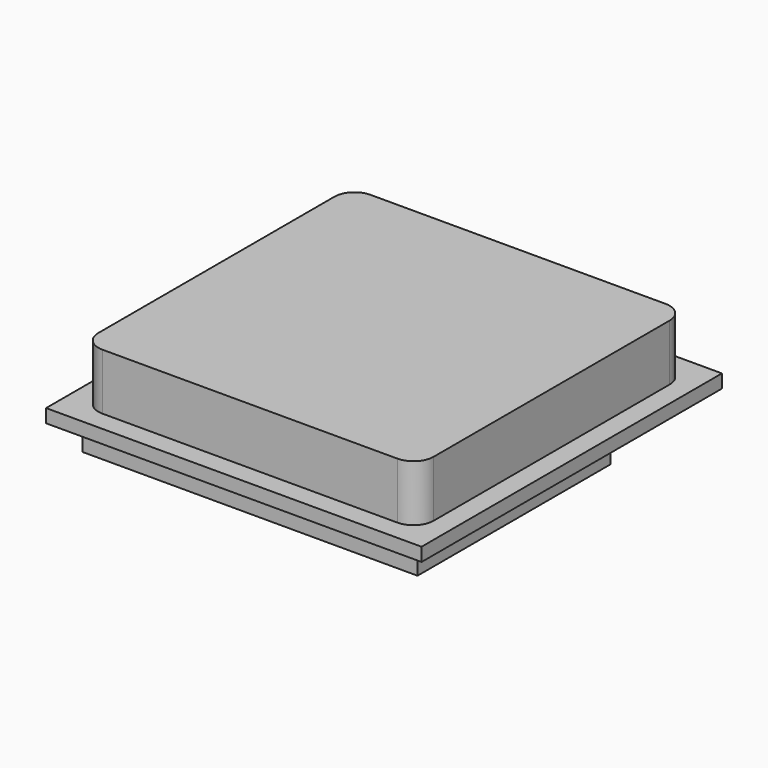
from build123d import *

# Parameters (mm, degrees)
SKETCH_W     = 28
SKETCH_H     = 28
PAD_DEPTH    = 1
PAD001_DEPTH = 4.2
SKETCH002_W  = 8
SKETCH002_H  = 4
PAD002_DEPTH = 3
SKETCH003_W  = 25
SKETCH003_H  = 18
PAD003_DEPTH = 2
SKETCH004_R  = 2.236068
PAD004_DEPTH = 1.5
SKETCH005_R  = 0.5
POCKET_DEPTH = 5.201


with BuildPart() as part:
    # Sketch → Pad (new body)
    with BuildSketch(Plane.XY):
        Rectangle(SKETCH_W, SKETCH_H)
    extrude(amount=PAD_DEPTH)

    # Sketch001 (on Face6 of Pad) → Pad001 (join)
    with BuildSketch(Plane.XY.offset(1)):
        with BuildLine():
            Line((-11, 12.5), (11, 12.5))
            ThreePointArc((12.5, 11), (12.06066, 12.06066), (11, 12.5))
            Line((12.5, 11), (12.5, -11))
            ThreePointArc((11, -12.5), (12.06066, -12.06066), (12.5, -11))
            Line((11, -12.5), (-11, -12.5))
            ThreePointArc((-12.5, -11), (-12.06066, -12.06066), (-11, -12.5))
            Line((-12.5, -11), (-12.5, 11))
            ThreePointArc((-11, 12.5), (-12.06066, 12.06066), (-12.5, 11))
        make_face()
    extrude(amount=PAD001_DEPTH)

    # Sketch002 (on Face4 of Pad001) → Pad002 (join)
    with BuildSketch(Plane(origin=(0, 0, 0), x_dir=(1, 0, 0), z_dir=(0, 0, -1))):
        with Locations((0, -9)):
            Rectangle(SKETCH002_W, SKETCH002_H)
    extrude(amount=PAD002_DEPTH)

    # Sketch003 (on Face4 of Pad002) → Pad003 (join)
    with BuildSketch(Plane(origin=(0, 0, 0), x_dir=(1, 0, 0), z_dir=(0, 0, -1))):
        with Locations((0, 3.5)):
            Rectangle(SKETCH003_W, SKETCH003_H)
    extrude(amount=PAD003_DEPTH)

    # Sketch004 (on Face4 of Pad003) → Pad004 (join)
    with BuildSketch(Plane(origin=(0, 0, 0), x_dir=(1, 0, 0), z_dir=(0, 0, -1))):
        with Locations((9, -10)):
            Circle(SKETCH004_R)
    extrude(amount=PAD004_DEPTH)

    # Sketch005 (on Face4 of Pad004) → Pocket (cut, through all)
    with BuildSketch(Plane(origin=(0, 0, 0), x_dir=(1, 0, 0), z_dir=(0, 0, -1))):
        with Locations((-5, -13.37)):
            Circle(SKETCH005_R)
        with Locations((-3, -13.37)):
            Circle(SKETCH005_R)
        with Locations((-1, -13.37)):
            Circle(SKETCH005_R)
        with Locations((1, -13.37)):
            Circle(SKETCH005_R)
        with Locations((3, -13.37)):
            Circle(SKETCH005_R)
        with Locations((5, -13.37)):
            Circle(SKETCH005_R)
    extrude(amount=-POCKET_DEPTH, mode=Mode.SUBTRACT)


solid = part.part
